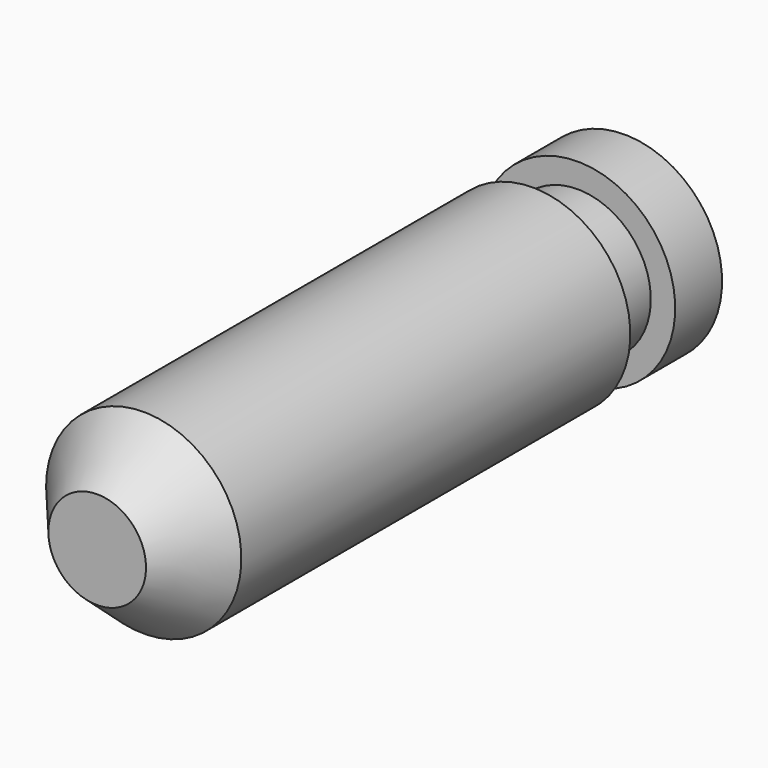
from build123d import *


with BuildPart() as f1:
    # F0 (on Top) → F1 (revolve)
    with BuildSketch(Plane.XY):
        Polygon((0, 0), (0, 54), (-8, 54), (-8, 49.2), (-6, 49.2), (-6, 44.6), (-8, 44.6), (-8, 4.767014), (-4, 0), align=None)
    revolve(axis=Axis((0, 27, 0), (0, 1, 0)))


solid = f1.part
